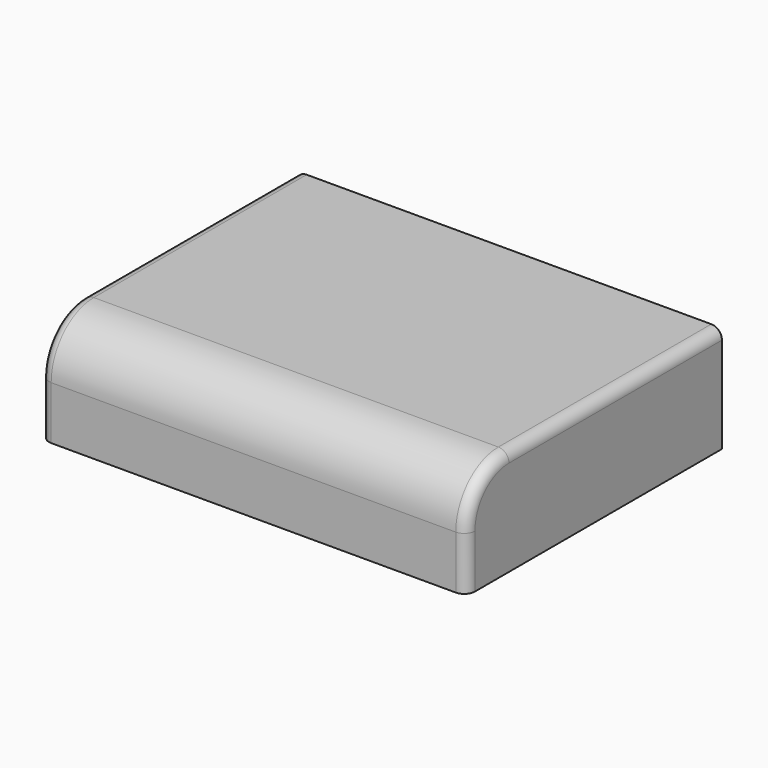
from build123d import *

# Parameters (mm, degrees)
F1_DEPTH = 40
F2_R     = 1
F3_R     = 1


with BuildPart() as f1:
    # F0 (on Right) → F1 (new body)
    with BuildSketch(Plane.YZ):
        with BuildLine():
            Line((-15.193799, 5), (-15.193799, 0))
            Line((-15.193799, 0), (14.806201, 0))
            Line((14.806201, 0), (14.806201, 10))
            Line((14.806201, 10), (-10.193799, 10))
            ThreePointArc((-10.193799, 10), (-13.729333, 8.535534), (-15.193799, 5))
        make_face()
    extrude(amount=F1_DEPTH)

    # F2
    f2_edges = [f1.edges().sort_by_distance(p)[0] for p in [
        (40, 2.306201, 10),
    ]]
    fillet(f2_edges, radius=F2_R)

    # F3
    f3_edges = [f1.edges().sort_by_distance(p)[0] for p in [
        (0, 2.306201, 10),
    ]]
    fillet(f3_edges, radius=F3_R)


solid = f1.part
